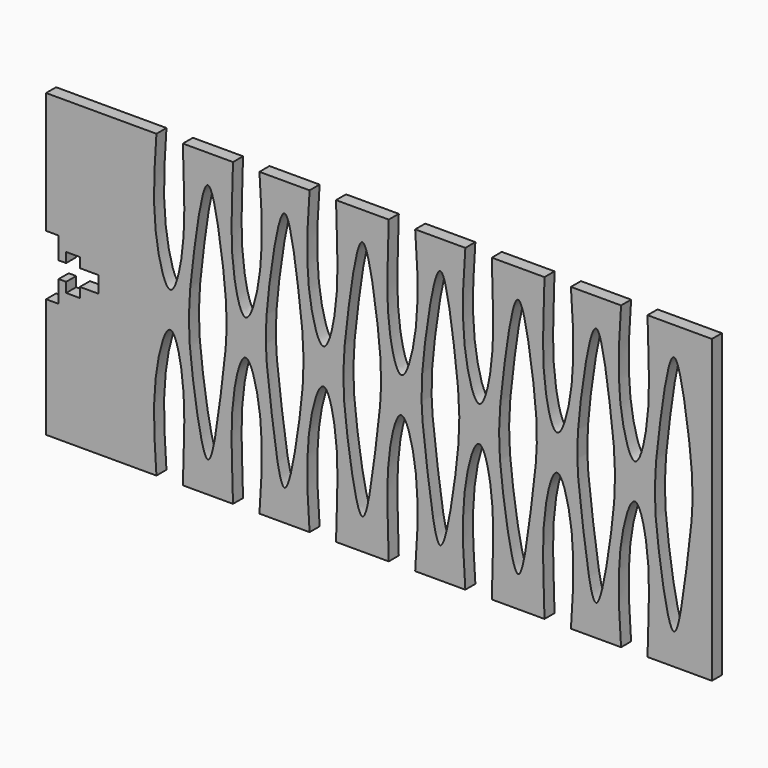
from build123d import *

# Parameters (mm, degrees)
F1_DEPTH = 3.175


with BuildPart() as f1:
    # F0 (on Front) → F1 (new body)
    with BuildSketch(Plane.XZ):
        with BuildLine():
            Line((-56.8326793868, 38.1), (-56.8326793868, 7.3685093322))
            Line((-56.8326793868, 7.3685093322), (-53.6576793868, 7.3685093322))
            Line((-53.6576793868, 7.3685093322), (-53.6576793868, 1.8313093322))
            Line((-53.6576793868, 1.8313093322), (-51.7526793868, 1.8313093322))
            Line((-51.7526793868, 1.8313093322), (-51.7526793868, 4.3205093322))
            Line((-51.7526793868, 4.3205093322), (-48.2728793868, 4.3205093322))
            Line((-48.2728793868, 4.3205093322), (-48.2728793868, 1.8313093322))
            Line((-48.2728793868, 1.8313093322), (-43.4976793868, 1.8313093322))
            Line((-43.4976793868, 1.8313093322), (-43.4976793868, -2.3342906678))
            Line((-43.4976793868, -2.3342906678), (-48.2728793868, -2.3342906678))
            Line((-48.2728793868, -2.3342906678), (-48.2728793868, -4.8234906678))
            Line((-48.2728793868, -4.8234906678), (-51.7526793868, -4.8234906678))
            Line((-51.7526793868, -4.8234906678), (-51.7526793868, -2.3342906678))
            Line((-51.7526793868, -2.3342906678), (-53.6576793868, -2.3342906678))
            Line((-53.6576793868, -2.3342906678), (-53.6576793868, -7.8714906678))
            Line((-53.6576793868, -7.8714906678), (-56.8326793868, -7.8714906678))
            Line((-56.8326793868, -7.8714906678), (-56.8326793868, -38.1))
            Line((-56.8326793868, -38.1), (-28.8926793868, -38.1))
            add(Edge.make_bspline(
                [(-28.8926793868, -38.1), (-29.4409623671, -30.3177760394), (-30.2784027516, -17.1380071506), (-25.2684159269, 0.8076443543), (-20.9424247232, -17.6155444926), (-22.1008748879, -30.3973916831), (-22.2008284181, -38.1)],
                knots=[0, 0, 0, 0, 0.2964443158, 0.4999579478, 0.7062146833, 1, 1, 1, 1], degree=3))
            Line((-22.2008284181, -38.1), (-9.5008284181, -38.1))
            add(Edge.make_bspline(
                [(-2.8089774495, -38.1), (-2.2606944692, -30.3177760394), (-1.4232540846, -17.1380071506), (-6.4332409094, 0.8076443543), (-10.7592321131, -17.6155444926), (-9.6007819483, -30.3973916831), (-9.5008284181, -38.1)],
                knots=[0, 0, 0, 0, 0.2964443158, 0.4999579478, 0.7062146833, 1, 1, 1, 1], degree=3))
            Line((-2.8089774495, -38.1), (9.8910225505, -38.1))
            add(Edge.make_bspline(
                [(9.8910225505, -38.1), (9.3427395702, -30.3177760394), (8.5052991857, -17.1380071506), (13.5152860105, 0.8076443543), (17.8412772141, -17.6155444926), (16.6828270494, -30.3973916831), (16.5828735192, -38.1)],
                knots=[0, 0, 0, 0, 0.2964443158, 0.4999579478, 0.7062146833, 1, 1, 1, 1], degree=3))
            Line((16.5828735192, -38.1), (29.9361632713, -38.1))
            add(Edge.make_bspline(
                [(36.62801424, -38.1), (37.1762972203, -30.3177760394), (38.0137376048, -17.1380071506), (33.00375078, 0.8076443543), (28.6777595764, -17.6155444926), (29.8362097411, -30.3973916831), (29.9361632713, -38.1)],
                knots=[0, 0, 0, 0, 0.2964443158, 0.4999579478, 0.7062146833, 1, 1, 1, 1], degree=3))
            Line((36.62801424, -38.1), (49.32801424, -38.1))
            add(Edge.make_bspline(
                [(49.32801424, -38.1), (48.7797312597, -30.3177760394), (47.9422908751, -17.1380071506), (52.9522776999, 0.8076443543), (57.2782689036, -17.6155444926), (56.1198187388, -30.3973916831), (56.0198652086, -38.1)],
                knots=[0, 0, 0, 0, 0.2964443158, 0.4999579478, 0.7062146833, 1, 1, 1, 1], degree=3))
            Line((56.0198652086, -38.1), (69.3731549608, -38.1))
            add(Edge.make_bspline(
                [(76.0650059294, -38.1), (76.6132889097, -30.3177760394), (77.4507292943, -17.1380071506), (72.4407424695, 0.8076443543), (68.1147512658, -17.6155444926), (69.2732014306, -30.3973916831), (69.3731549608, -38.1)],
                knots=[0, 0, 0, 0, 0.2964443158, 0.4999579478, 0.7062146833, 1, 1, 1, 1], degree=3))
            Line((76.0650059294, -38.1), (88.7650059294, -38.1))
            add(Edge.make_bspline(
                [(88.7650059294, -38.1), (88.2167229491, -30.3177760394), (87.3792825646, -17.1380071506), (92.3892693894, 0.8076443543), (96.715260593, -17.6155444926), (95.5568104283, -30.3973916831), (95.4568568981, -38.1)],
                knots=[0, 0, 0, 0, 0.2964443158, 0.4999579478, 0.7062146833, 1, 1, 1, 1], degree=3))
            Line((95.4568568981, -38.1), (111.7601245642, -38.1))
            Line((111.7601245642, -38.1), (111.7601245642, 38.1))
            Line((111.7601245642, 38.1), (95.4568568981, 38.1))
            add(Edge.make_bspline(
                [(88.7650059294, 38.1), (88.2167229491, 30.3177760394), (87.3792825646, 17.1380071506), (92.3892693894, -0.8076443543), (96.715260593, 17.6155444926), (95.5568104283, 30.3973916831), (95.4568568981, 38.1)],
                knots=[0, 0, 0, 0, 0.2964443158, 0.4999579478, 0.7062146833, 1, 1, 1, 1], degree=3))
            Line((88.7650059294, 38.1), (76.0650059294, 38.1))
            add(Edge.make_bspline(
                [(76.0650059294, 38.1), (76.6132889097, 30.3177760394), (77.4507292943, 17.1380071506), (72.4407424695, -0.8076443543), (68.1147512658, 17.6155444926), (69.2732014306, 30.3973916831), (69.3731549608, 38.1)],
                knots=[0, 0, 0, 0, 0.2964443158, 0.4999579478, 0.7062146833, 1, 1, 1, 1], degree=3))
            Line((69.3731549608, 38.1), (56.0198652086, 38.1))
            add(Edge.make_bspline(
                [(49.32801424, 38.1), (48.7797312597, 30.3177760394), (47.9422908751, 17.1380071506), (52.9522776999, -0.8076443543), (57.2782689036, 17.6155444926), (56.1198187388, 30.3973916831), (56.0198652086, 38.1)],
                knots=[0, 0, 0, 0, 0.2964443158, 0.4999579478, 0.7062146833, 1, 1, 1, 1], degree=3))
            Line((49.32801424, 38.1), (36.62801424, 38.1))
            add(Edge.make_bspline(
                [(36.62801424, 38.1), (37.1762972203, 30.3177760394), (38.0137376048, 17.1380071506), (33.00375078, -0.8076443543), (28.6777595764, 17.6155444926), (29.8362097411, 30.3973916831), (29.9361632713, 38.1)],
                knots=[0, 0, 0, 0, 0.2964443158, 0.4999579478, 0.7062146833, 1, 1, 1, 1], degree=3))
            Line((29.9361632713, 38.1), (16.5828735192, 38.1))
            add(Edge.make_bspline(
                [(9.8910225505, 38.1), (9.3427395702, 30.3177760394), (8.5052991857, 17.1380071506), (13.5152860105, -0.8076443543), (17.8412772141, 17.6155444926), (16.6828270494, 30.3973916831), (16.5828735192, 38.1)],
                knots=[0, 0, 0, 0, 0.2964443158, 0.4999579478, 0.7062146833, 1, 1, 1, 1], degree=3))
            Line((9.8910225505, 38.1), (-2.8089774495, 38.1))
            add(Edge.make_bspline(
                [(-2.8089774495, 38.1), (-2.2606944692, 30.3177760394), (-1.4232540846, 17.1380071506), (-6.4332409094, -0.8076443543), (-10.7592321131, 17.6155444926), (-9.6007819483, 30.3973916831), (-9.5008284181, 38.1)],
                knots=[0, 0, 0, 0, 0.2964443158, 0.4999579478, 0.7062146833, 1, 1, 1, 1], degree=3))
            Line((-9.5008284181, 38.1), (-22.2008284181, 38.1))
            add(Edge.make_bspline(
                [(-28.8926793868, 38.1), (-29.4409623671, 30.3177760394), (-30.2784027516, 17.1380071506), (-25.2684159269, -0.8076443543), (-20.9424247232, 17.6155444926), (-22.1008748879, 30.3973916831), (-22.2008284181, 38.1)],
                knots=[0, 0, 0, 0, 0.2964443158, 0.4999579478, 0.7062146833, 1, 1, 1, 1], degree=3))
            Line((-28.8926793868, 38.1), (-56.8326793868, 38.1))
        make_face()
        with BuildLine():
            add(Edge.make_bspline(
                [(-15.8508284181, 30.8821313083), (-17.1671027118, 30.8847399022), (-19.6469226233, 13.6144591614), (-21.1333834993, 0.0203290878), (-19.8891108455, -13.4363823297), (-15.7050604749, -38.5252537745), (-12.4730564477, -13.6463755509), (-10.6470220782, 0.0278241908), (-11.7223227116, 13.5039502384), (-14.5276773152, 30.8795090859), (-15.8508284181, 30.8821313083)],
                knots=[0, 0, 0, 0, 0.1251889422, 0.2512574559, 0.3763668843, 0.5000991021, 0.6224666075, 0.7486767031, 0.8741570144, 1, 1, 1, 1], degree=3))
        make_face(mode=Mode.SUBTRACT)
        with BuildLine():
            add(Edge.make_bspline(
                [(3.5410225505, 30.8821313083), (4.8572968441, 30.8847399022), (7.3371167557, 13.6144591614), (8.8235776317, 0.0203290878), (7.5793049778, -13.4363823297), (3.3952546073, -38.5252537745), (0.1632505801, -13.6463755509), (-1.6627837894, 0.0278241908), (-0.587483156, 13.5039502384), (2.2178714475, 30.8795090859), (3.5410225505, 30.8821313083)],
                knots=[0, 0, 0, 0, 0.1251889422, 0.2512574559, 0.3763668843, 0.5000991021, 0.6224666075, 0.7486767031, 0.8741570144, 1, 1, 1, 1], degree=3))
        make_face(mode=Mode.SUBTRACT)
        with BuildLine():
            add(Edge.make_bspline(
                [(23.2595183953, 30.8821313083), (21.9432441016, 30.8847399022), (19.46342419, 13.6144591614), (17.9769633141, 0.0203290878), (19.2212359679, -13.4363823297), (23.4052863384, -38.5252537745), (26.6372903657, -13.6463755509), (28.4633247352, 0.0278241908), (27.3880241017, 13.5039502384), (24.5826694982, 30.8795090859), (23.2595183953, 30.8821313083)],
                knots=[0, 0, 0, 0, 0.1251889422, 0.2512574559, 0.3763668843, 0.5000991021, 0.6224666075, 0.7486767031, 0.8741570144, 1, 1, 1, 1], degree=3))
        make_face(mode=Mode.SUBTRACT)
        with BuildLine():
            add(Edge.make_bspline(
                [(42.97801424, 30.8821313083), (44.2942885336, 30.8847399022), (46.7741084452, 13.6144591614), (48.2605693212, 0.0203290878), (47.0162966673, -13.4363823297), (42.8322462968, -38.5252537745), (39.6002422696, -13.6463755509), (37.7742079, 0.0278241908), (38.8495085335, 13.5039502384), (41.654863137, 30.8795090859), (42.97801424, 30.8821313083)],
                knots=[0, 0, 0, 0, 0.1251889422, 0.2512574559, 0.3763668843, 0.5000991021, 0.6224666075, 0.7486767031, 0.8741570144, 1, 1, 1, 1], degree=3))
        make_face(mode=Mode.SUBTRACT)
        with BuildLine():
            add(Edge.make_bspline(
                [(62.6965100847, 30.8821313083), (61.3802357911, 30.8847399022), (58.9004158795, 13.6144591614), (57.4139550035, 0.0203290878), (58.6582276574, -13.4363823297), (62.8422780279, -38.5252537745), (66.0742820551, -13.6463755509), (67.9003164246, 0.0278241908), (66.8250157912, 13.5039502384), (64.0196611877, 30.8795090859), (62.6965100847, 30.8821313083)],
                knots=[0, 0, 0, 0, 0.1251889422, 0.2512574559, 0.3763668843, 0.5000991021, 0.6224666075, 0.7486767031, 0.8741570144, 1, 1, 1, 1], degree=3))
        make_face(mode=Mode.SUBTRACT)
        with BuildLine():
            add(Edge.make_bspline(
                [(82.4150059294, 30.8821313083), (83.7312802231, 30.8847399022), (86.2111001346, 13.6144591614), (87.6975610106, 0.0203290878), (86.4532883567, -13.4363823297), (82.2692379862, -38.5252537745), (79.037233959, -13.6463755509), (77.2111995895, 0.0278241908), (78.2865002229, 13.5039502384), (81.0918548264, 30.8795090859), (82.4150059294, 30.8821313083)],
                knots=[0, 0, 0, 0, 0.1251889422, 0.2512574559, 0.3763668843, 0.5000991021, 0.6224666075, 0.7486767031, 0.8741570144, 1, 1, 1, 1], degree=3))
        make_face(mode=Mode.SUBTRACT)
        with BuildLine():
            add(Edge.make_bspline(
                [(102.1335017742, 30.8821313083), (100.8172274805, 30.8847399022), (98.337407569, 13.6144591614), (96.850946693, 0.0203290878), (98.0952193468, -13.4363823297), (102.2792697173, -38.5252537745), (105.5112737446, -13.6463755509), (107.3373081141, 0.0278241908), (106.2620074806, 13.5039502384), (103.4566528771, 30.8795090859), (102.1335017742, 30.8821313083)],
                knots=[0, 0, 0, 0, 0.1251889422, 0.2512574559, 0.3763668843, 0.5000991021, 0.6224666075, 0.7486767031, 0.8741570144, 1, 1, 1, 1], degree=3))
        make_face(mode=Mode.SUBTRACT)
    extrude(amount=F1_DEPTH)


solid = f1.part
